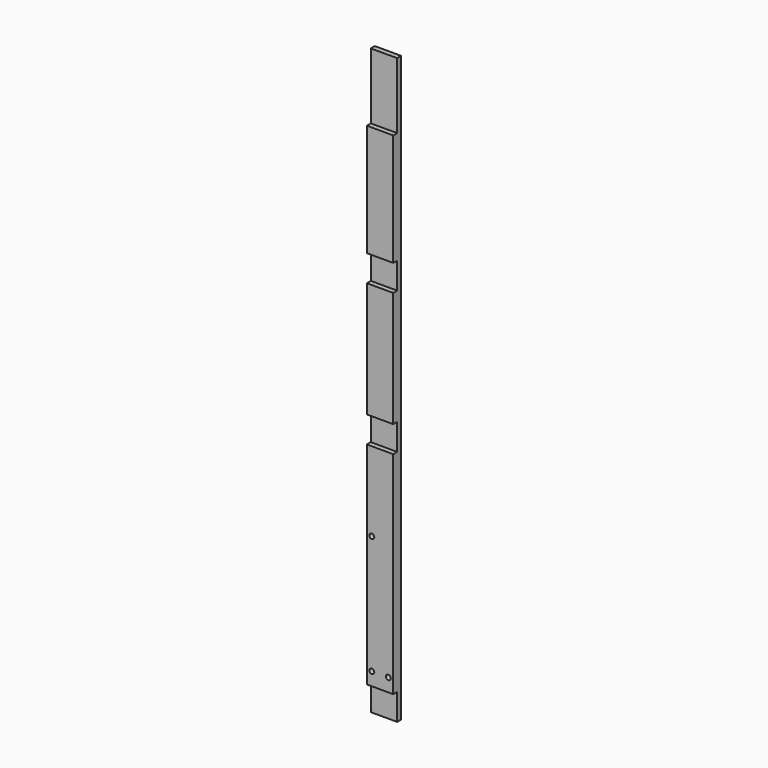
from build123d import *

# Parameters (mm, degrees)
F0_W     = 50.8
F0_H     = 19.05
F1_DEPTH = 1123.95
F2_W     = 122.435573
F2_H     = 50.8
F2_W_2   = 93.867282
F2_W_3   = 145.562325
F2_W_4   = 343.160421
F2_H_2   = 127
F3_DEPTH = 25.4
F4_R     = 0.79375
F5_DEPTH = 25.4
F6_R     = 4.7625
F7_DEPTH = 25.4


with BuildPart() as f1:
    # F0 (on Top) → F1 (new body)
    with BuildSketch(Plane.XY):
        Rectangle(F0_W, F0_H)
    extrude(amount=F1_DEPTH)

    # F2 (on Front) → F3 (cut)
    with BuildSketch(Plane.XZ):
        with Locations((22.446524, 25.4)):
            Rectangle(F2_W, F2_H)
        with Locations((2.720783, 755.65)):
            Rectangle(F2_W_2, F2_H)
        with Locations((-1.360391, 482.6)):
            Rectangle(F2_W_3, F2_H)
        with Locations((-38.781822, 1060.45)):
            Rectangle(F2_W_4, F2_H_2)
    extrude(amount=F3_DEPTH, mode=Mode.SUBTRACT)

    # F4 (on Front) → F5 (cut)
    with BuildSketch(Plane.XZ):
        with Locations((9.525, 101.6)):
            Circle(F4_R)
        with Locations((9.525, 155.575)):
            Circle(F4_R)
        with Locations((9.525, 625.475)):
            Circle(F4_R)
        with Locations((9.525, 679.45)):
            Circle(F4_R)
        with Locations((-9.525, 625.475)):
            Circle(F4_R)
        with Locations((-9.525, 679.45)):
            Circle(F4_R)
        with Locations((-9.525, 101.6)):
            Circle(F4_R)
        with Locations((-9.525, 155.575)):
            Circle(F4_R)
    extrude(amount=-F5_DEPTH, mode=Mode.SUBTRACT)

    # F6 (on Front) → F7 (cut)
    with BuildSketch(Plane.XZ):
        with Locations((15.875, 76.2)):
            Circle(F6_R)
        with Locations((-15.875, 76.2)):
            Circle(F6_R)
        with Locations((-15.875, 304.8)):
            Circle(F6_R)
    extrude(amount=F7_DEPTH, mode=Mode.SUBTRACT)


solid = f1.part
